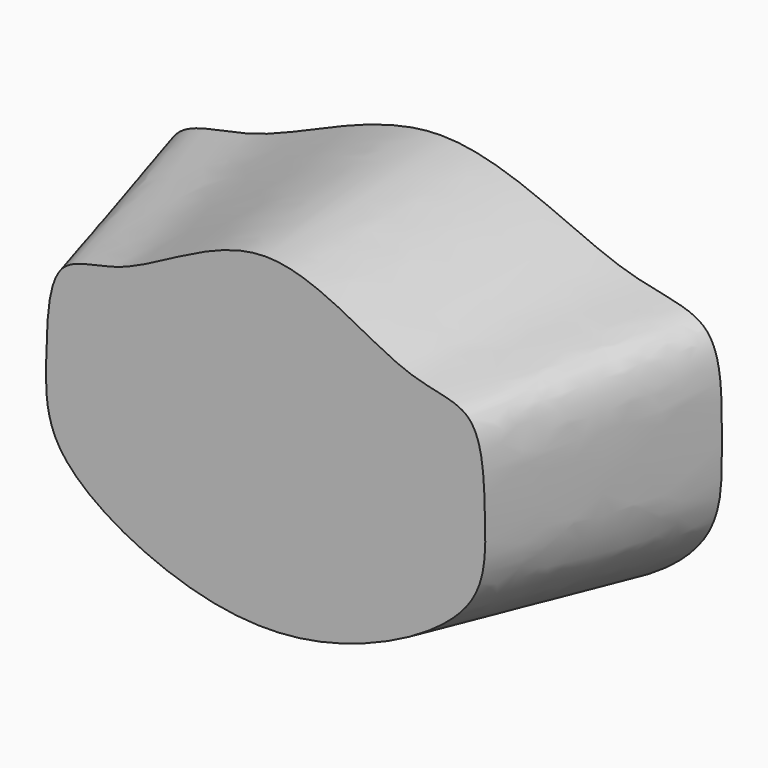
from build123d import *


with BuildPart() as f3:
    # F2 (on offset) → F3 section 0
    with BuildSketch(Plane.XZ.offset(1250)):
        with BuildLine():
            add(Edge.make_bspline(
                [(0, 900), (289.1574166069, 900), (767.6086428319, 516.6864151074), (1236.8441362464, 546.772460691), (1250.6327630121, -24.9425853141), (1262.3533186243, -519.5761928102), (417.1563746733, -986.3518475518), (-417.1563746733, -986.3518475518), (-1262.3533186243, -519.5761928102), (-1250.6327630121, -24.9425853141), (-1236.8441362464, 546.772460691), (-767.6086428319, 516.6864151074), (-289.1574166069, 900), (0, 900)],
                knots=[0, 0, 0, 0, 0.1085198423, 0.1795611962, 0.2590095107, 0.3384578253, 0.4457088254, 0.5542911746, 0.6615421747, 0.7409904893, 0.8204388038, 0.8914801577, 1, 1, 1, 1], degree=3))
        make_face()
    # F0 (on Front) → F3 section 1
    with BuildSketch(Plane.XZ):
        with BuildLine():
            add(Edge.make_bspline(
                [(0, 1000), (376.8460228226, 1000), (1002.0973382738, 593.5910524979), (1609.6777517204, 612.0630675093), (1594.2387411314, -25.1776190672), (1615.3183428224, -572.4127692125), (739.2678360992, -1133.2274720625), (-739.2678360992, -1133.2274720625), (-1615.3183428224, -572.4127692125), (-1594.2387411314, -25.1776190672), (-1609.6777517204, 612.0630675093), (-1002.0973382738, 593.5910524979), (-376.8460228226, 1000), (0, 1000)],
                knots=[0, 0, 0, 0, 0.1110072071, 0.1841797394, 0.2595987305, 0.3350177217, 0.4355489087, 0.5644510913, 0.6649822783, 0.7404012695, 0.8158202606, 0.8889927929, 1, 1, 1, 1], degree=3))
        make_face()
    loft()


solid = f3.part
